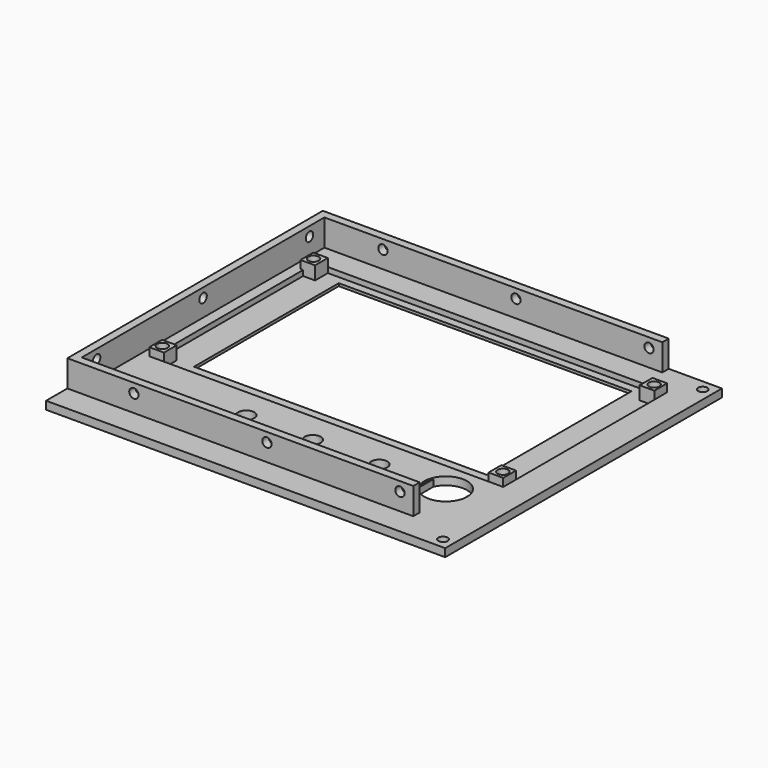
from build123d import *

# Parameters (mm, degrees)
SKETCH_W        = 150
SKETCH_H        = 130
SKETCH_R        = 8
SKETCH_R_2      = 1.75
SKETCH_W_2      = 110
SKETCH_H_2      = 68
PAD_DEPTH       = 3
SKETCH002_W     = 132
SKETCH002_H     = 77
POCKET001_DEPTH = 2.5
SKETCH007_W     = 5.5
SKETCH007_H     = 6
SKETCH007_R     = 2
PAD002_DEPTH    = 6
PAD003_DEPTH    = 10
SKETCH010_R     = 1.75
POCKET002_DEPTH = 6
SKETCH011_R     = 1.75
POCKET003_DEPTH = 7.5
SKETCH012_R     = 1.75
POCKET004_DEPTH = 7.5
SKETCH014_W     = 0.7
SKETCH014_H     = 6.545228
PAD004_DEPTH    = 2.5
SKETCH015_R     = 3.05
POCKET_DEPTH    = 13.001
SKETCH016_W     = 0.7
SKETCH016_H     = 6.545228
PAD005_DEPTH    = 2.5


with BuildPart() as part:
    # Sketch → Pad (new body)
    with BuildSketch(Plane.XY):
        with Locations((-75, -5)):
            Rectangle(SKETCH_W, SKETCH_H)
        with Locations((-23.386462, -40.5)):
            Circle(SKETCH_R, mode=Mode.SUBTRACT)
        with Locations((-141, 45)):
            Circle(SKETCH_R_2, mode=Mode.SUBTRACT)
        with Locations((-141, -26)):
            Circle(SKETCH_R_2, mode=Mode.SUBTRACT)
        with Locations((-13.5, 45)):
            Circle(SKETCH_R_2, mode=Mode.SUBTRACT)
        with Locations((-13.5, -26)):
            Circle(SKETCH_R_2, mode=Mode.SUBTRACT)
        with Locations((-4, 56)):
            Circle(SKETCH_R_2, mode=Mode.SUBTRACT)
        with Locations((-4, -66)):
            Circle(SKETCH_R_2, mode=Mode.SUBTRACT)
        with Locations((-77, 11)):
            Rectangle(SKETCH_W_2, SKETCH_H_2, mode=Mode.SUBTRACT)
    extrude(amount=PAD_DEPTH)

    # Sketch002 → Pocket001 (cut)
    with BuildSketch(Plane.XY.offset(3.5)):
        with Locations((-77, 9.5)):
            Rectangle(SKETCH002_W, SKETCH002_H)
    extrude(amount=-POCKET001_DEPTH, mode=Mode.SUBTRACT)

    # Sketch007 → Pad002 (join)
    with BuildSketch(Plane.XY):
        with Locations((-141.25, 45)):
            Rectangle(SKETCH007_W, SKETCH007_H)
        with Locations((-141.5, 45)):
            Circle(SKETCH007_R, mode=Mode.SUBTRACT)
        with Locations((-13.75, 45)):
            Rectangle(SKETCH007_W, SKETCH007_H)
        with Locations((-13.5, 45)):
            Circle(SKETCH007_R, mode=Mode.SUBTRACT)
        with Locations((-13.75, -26)):
            Rectangle(SKETCH007_W, SKETCH007_H)
        with Locations((-13.5, -26)):
            Circle(SKETCH007_R, mode=Mode.SUBTRACT)
        with Locations((-141.25, -26)):
            Rectangle(SKETCH007_W, SKETCH007_H)
        with Locations((-141.5, -26)):
            Circle(SKETCH007_R, mode=Mode.SUBTRACT)
    extrude(amount=PAD002_DEPTH)

    # Sketch003 (on DatumPlane) → Pad003 (join)
    with BuildSketch(Plane.XY.offset(3)):
        Polygon((-20, 60), (-150, 60), (-150, -60), (-20, -60), (-20, -57), (-147, -57), (-147, 57), (-20, 57), align=None)
    extrude(amount=PAD003_DEPTH)

    # Sketch010 → Pocket002 (cut)
    with BuildSketch(Plane.XZ.offset(60)):
        with Locations((-125, 9.5)):
            Circle(SKETCH010_R)
        with Locations((-25, 9.5)):
            Circle(SKETCH010_R)
        with Locations((-75, 9.5)):
            Circle(SKETCH010_R)
    extrude(amount=-POCKET002_DEPTH, mode=Mode.SUBTRACT)

    # Sketch011 → Pocket003 (cut, symmetric)
    with BuildSketch(Plane.XZ.offset(-60)):
        with Locations((-75, 9.5)):
            Circle(SKETCH011_R)
        with Locations((-25, 9.5)):
            Circle(SKETCH011_R)
        with Locations((-125, 9.5)):
            Circle(SKETCH011_R)
    extrude(amount=POCKET003_DEPTH, both=True, mode=Mode.SUBTRACT)

    # Sketch012 (on DatumPlane) → Pocket004 (cut, symmetric)
    with BuildSketch(Plane.YZ.offset(-150)):
        with Locations((0, 9.5)):
            Circle(SKETCH012_R)
        with Locations((50, 9.5)):
            Circle(SKETCH012_R)
        with Locations((-50, 9.5)):
            Circle(SKETCH012_R)
    extrude(amount=POCKET004_DEPTH, both=True, mode=Mode.SUBTRACT)

    # Sketch014 → Pad004 (join)
    with BuildSketch(Plane.XY):
        with Locations((-31.036462, -40.5)):
            Rectangle(SKETCH014_W, SKETCH014_H)
    extrude(amount=PAD004_DEPTH)

    # Sketch015 (on Face4 of Pad004) → Pocket (cut, through all)
    with BuildSketch(Plane(origin=(0, 0, 0), x_dir=(1, 0, 0), z_dir=(0, 0, -1))):
        with Locations((-48.386462, 40.5)):
            Circle(SKETCH015_R)
        with Locations((-73.386462, 40.5)):
            Circle(SKETCH015_R)
        with Locations((-98.386462, 40.5)):
            Circle(SKETCH015_R)
    extrude(amount=-POCKET_DEPTH, mode=Mode.SUBTRACT)

    # Sketch016 (on Face4 of Pocket) → Pad005 (join)
    with BuildSketch(Plane(origin=(0, 0, 0), x_dir=(1, 0, 0), z_dir=(0, 0, -1))):
        with Locations((-15.736462, 40.5)):
            Rectangle(SKETCH016_W, SKETCH016_H)
    extrude(amount=-PAD005_DEPTH)


solid = part.part
